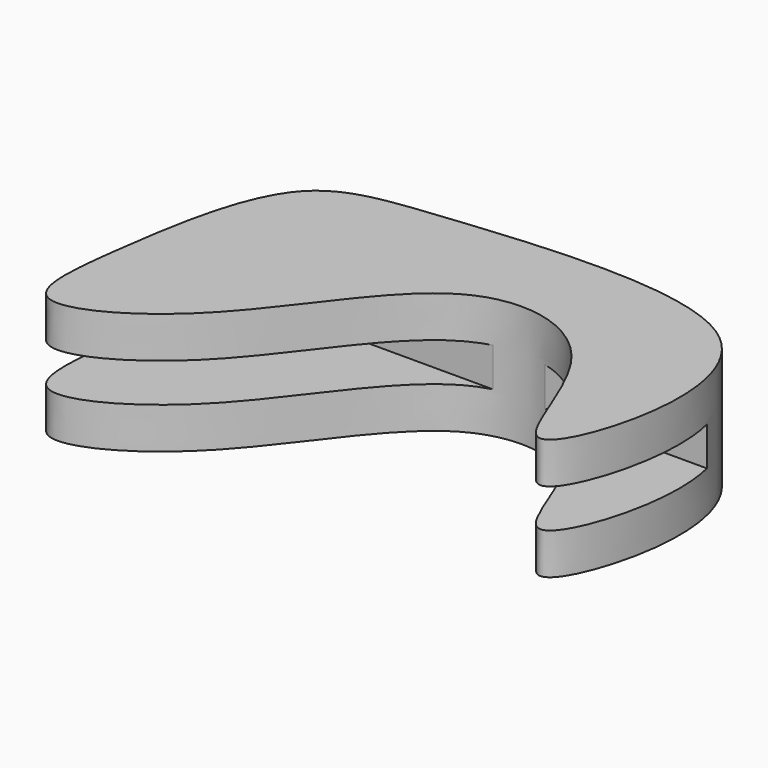
from build123d import *

# Parameters (mm, degrees)
F1_DEPTH = 5
F2_W     = 20.8318121065
F2_H     = 0.8
F3_DEPTH = 5


with BuildPart() as f1:
    # F0 (on Top) → F1 (new body)
    with BuildSketch(Plane.XY):
        with BuildLine():
            add(Edge.make_bspline(
                [(0, 0), (0.3278406563, 2.4924959608), (1.16793513, 7.8682429777), (6.7177983298, 8.4408130705), (20.2390324564, 9.8693374857), (21.0348318945, 1.8677907794), (18.4586454973, -3.8398314457), (16.9493680267, 4.6576345411), (9.8564265715, 6.1456467153), (5.8460449742, -1.9304702149), (-0.6138312512, -5.3090219642), (-0.2432048927, -1.8490300118), (0, 0)],
                knots=[0, 0, 0, 0, 0.1079370331, 0.1996346912, 0.3392949389, 0.4421002734, 0.517890545, 0.6149195943, 0.7090680918, 0.8291074371, 0.9199281296, 1, 1, 1, 1], degree=3))
        make_face()
    extrude(amount=F1_DEPTH)

    # F2 (on Front) → F3 (cut, symmetric)
    with BuildSketch(Plane.XZ):
        with Locations((10.2066677397, 2.9)):
            Rectangle(F2_W, F2_H)
        with Locations((10.2066677397, 2.1)):
            Rectangle(F2_W, F2_H)
    extrude(amount=F3_DEPTH, both=True, mode=Mode.SUBTRACT)


solid = f1.part
